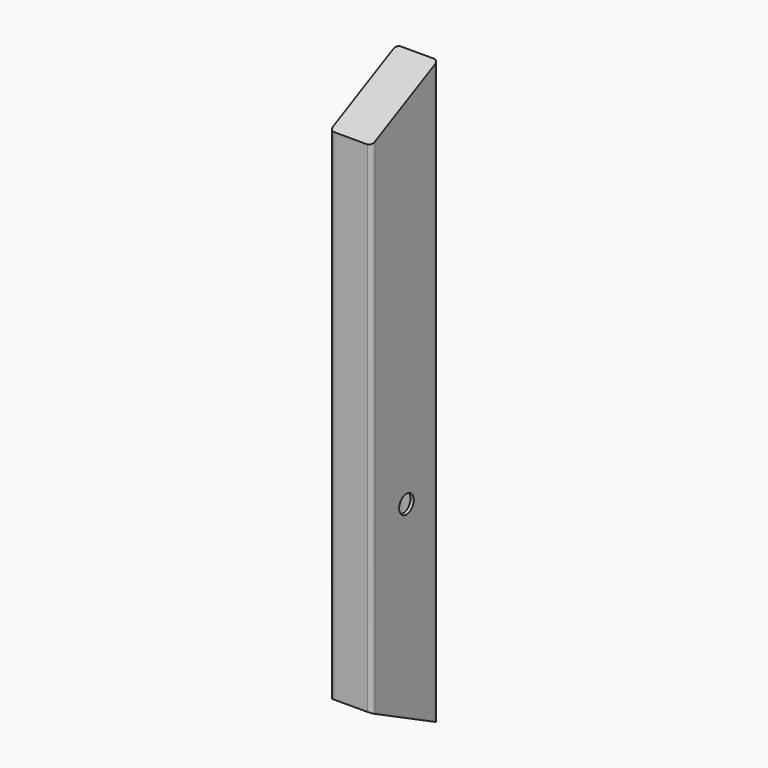
from build123d import *

# Parameters (mm, degrees)
F1_DEPTH = 50
F2_T     = -4
F3_R     = 5
F4_D     = 22


with BuildPart() as f1:
    # F0 (on Right) → F1 (new body)
    with BuildSketch(Plane.YZ):
        Polygon((-52.4746724886, 274.1746123904), (-52.4746724886, -325.8253876096), (47.5253275114, -375.8253876096), (47.5253275114, 324.1746123904), align=None)
    extrude(amount=F1_DEPTH)

    # F2
    f2_openings = [f1.faces().sort_by_distance(p)[0] for p in [
        (25, -2.474672, -350.825388),
    ]]
    offset(amount=F2_T, openings=f2_openings)

    # F3
    f3_edges = [f1.edges().sort_by_distance(p)[0] for p in [
        (50, -52.474672, -25.825388),
        (50, 47.525328, -25.825388),
        (0, 47.525328, -25.825388),
        (0, -52.474672, -25.825388),
        (4, -48.474672, -28.061456),
        (4, 43.525328, -28.061456),
        (46, 43.525328, -28.061456),
        (46, -48.474672, -28.061456),
    ]]
    fillet(f3_edges, radius=F3_R)

    # F4 (through all)
    with Locations(Plane(origin=(0, 0, 0), x_dir=(0, 1, 0), z_dir=(-1, 0, 0))):
        with Locations((0, 125.8253876096)):
            Hole(F4_D / 2)


solid = f1.part
